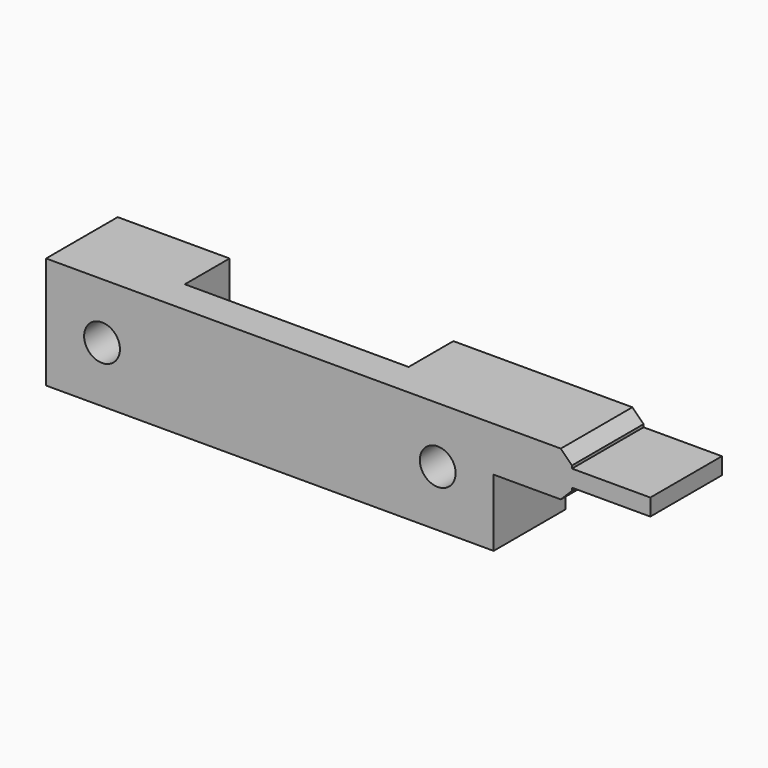
from build123d import *

# Parameters (mm, degrees)
F0_W      = 40
F0_H      = 10
F1_DEPTH  = 8
F2_W      = 20
F2_H      = 5
F3_DEPTH  = 10
F4_R      = 1.6
F5_R      = 1.6
F6_DEPTH  = 8
F7_W      = 8
F7_H      = 4
F8_DEPTH  = 7
F9_W      = 8
F9_H      = 1.5
F10_DEPTH = 7
F11_SIZE  = 1


with BuildPart() as f1:
    # F0 (on Front) → F1 (new body)
    with BuildSketch(Plane.XZ):
        Rectangle(F0_W, F0_H)
    extrude(amount=F1_DEPTH)

    # F2 (on face) → F3 (cut, through all)
    with BuildSketch(Plane.XY.offset(5)):
        with Locations((0, -2.5)):
            Rectangle(F2_W, F2_H)
    extrude(amount=-F3_DEPTH, mode=Mode.SUBTRACT)

    # F4 (on face) + F5 (on face) → F6 (cut, through all)
    with BuildSketch(Plane(origin=(0, 0, 0), x_dir=(-1, 0, 0), z_dir=(0, 1, 0))):
        with Locations((-15, 0)):
            Circle(F4_R)
    with BuildSketch(Plane(origin=(0, 0, 0), x_dir=(-1, 0, 0), z_dir=(0, 1, 0))):
        with Locations((15, 0)):
            Circle(F5_R)
    extrude(amount=-F6_DEPTH, mode=Mode.SUBTRACT)

    # F7 (on face) → F8 (join)
    with BuildSketch(Plane.YZ.offset(20)):
        with Locations((-4, 3)):
            Rectangle(F7_W, F7_H)
    extrude(amount=F8_DEPTH)

    # F9 (on face) → F10 (join)
    with BuildSketch(Plane.YZ.offset(27)):
        with Locations((-4, 3)):
            Rectangle(F9_W, F9_H)
    extrude(amount=F10_DEPTH)

    # F11
    f11_edges = [f1.edges().sort_by_distance(p)[0] for p in [
        (27, -4, 1),
        (27, -4, 5),
    ]]
    chamfer(f11_edges, length=F11_SIZE)


solid = f1.part
